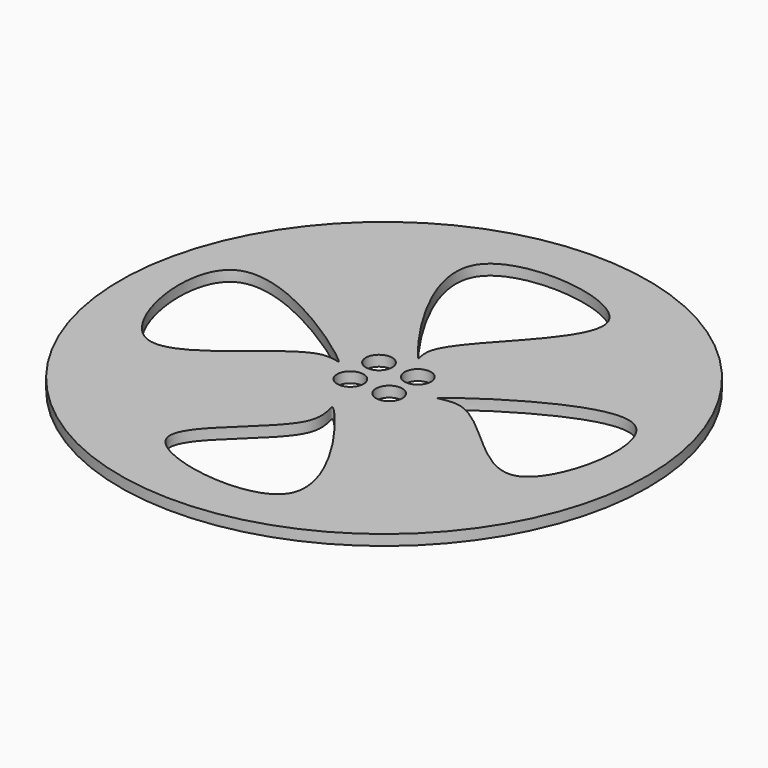
from build123d import *

# Parameters (mm, degrees)
F0_R     = 50
F1_DEPTH = 2
F3_D     = 5
F5_DEPTH = 2
F6_DEPTH = 2


with BuildPart() as f1:
    # F0 (on Top) → F1 (new body)
    with BuildSketch(Plane.XY):
        Circle(F0_R)
    extrude(amount=F1_DEPTH)

    # F3 (through all)
    with Locations(Plane.XY.offset(2)):
        with Locations((3.6737150516, -3.3917278369), (3.6737150516, 3.3917278369), (-3.6737150516, 3.3917278369), (-3.6737150516, -3.3917278369)):
            Hole(F3_D / 2)

    # F4 (on face) → F5 (cut)
    with BuildSketch(Plane(origin=(0, 0, 0), x_dir=(1, 0, 0), z_dir=(0, 0, -1))):
        with BuildLine():
            add(Edge.make_bspline(
                [(-12.2414324433, 0), (-18.4056373658, 1.5650833739), (-38.3443477555, 28.4144518094), (-49.5218394848, -31.2899076627), (-2.8329855538, 3.7705432238), (-9.9258810126, -0.5879154069), (-12.2414324433, 0)],
                knots=[0, 0, 0, 0, 0.2860510544, 0.5705832769, 0.8925464133, 1, 1, 1, 1], degree=3))
        make_face()
    extrude(amount=-F5_DEPTH, mode=Mode.SUBTRACT)

    # F4 (on face) → F6 (cut)
    with BuildSketch(Plane(origin=(0, 0, 0), x_dir=(1, 0, 0), z_dir=(0, 0, -1))):
        with BuildLine():
            add(Edge.make_bspline(
                [(0, 17.1572826803), (-1.9504478032, 23.1173887703), (-29.1441676817, 37.7239940538), (29.4134081036, 47.2225176343), (-4.4439160706, 5.6622095776), (0.9245014358, 14.3322254659), (0, 17.1572826803)],
                knots=[0, 0, 0, 0, 0.273118645, 0.5642148024, 0.8705432778, 1, 1, 1, 1], degree=3))
        make_face()
        with BuildLine():
            add(Edge.make_bspline(
                [(14.554772526, 0), (20.6461698694, 1.7197331533), (37.7975195879, 27.4751700415), (48.199428819, -28.0162444096), (4.2142088502, 3.8702916762), (11.9907542208, -0.7238777963), (14.554772526, 0)],
                knots=[0, 0, 0, 0, 0.2824256264, 0.5645577012, 0.8811201379, 1, 1, 1, 1], degree=3))
        make_face()
        with BuildLine():
            add(Edge.make_bspline(
                [(0, -11.3739296794), (1.7506338442, -17.4850699026), (32.5421339999, -38.9276133094), (-30.2787687975, -46.4494204681), (3.5799595659, -2.9721319816), (-0.6026095679, -9.2703306993), (0, -11.3739296794)],
                knots=[0, 0, 0, 0, 0.2953525562, 0.5863059459, 0.8983326657, 1, 1, 1, 1], degree=3))
        make_face()
    extrude(amount=-F6_DEPTH, mode=Mode.SUBTRACT)


solid = f1.part
